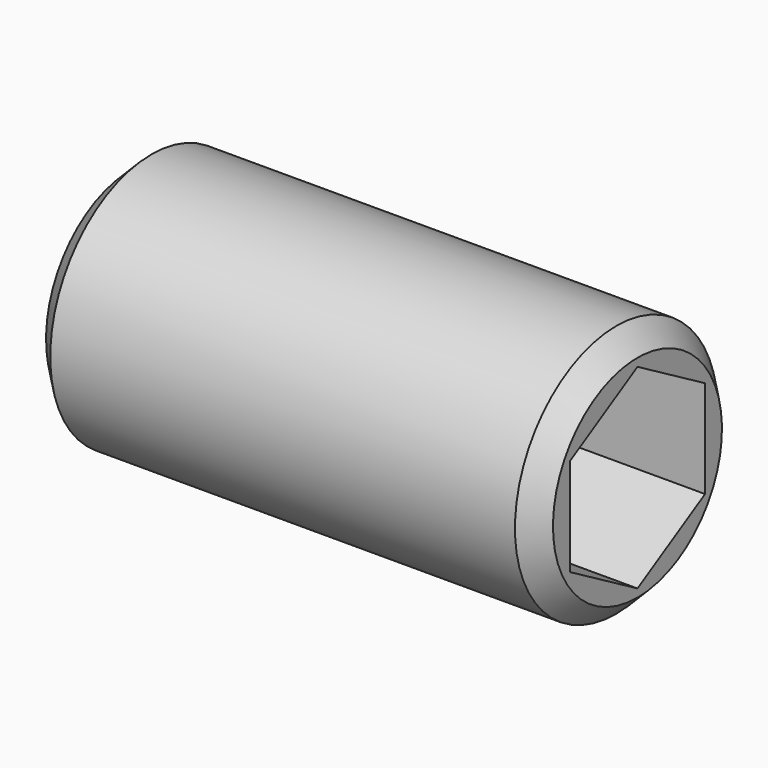
from build123d import *

# Parameters (mm, degrees)
CYLINDER012010_R     = 1.5
CYLINDER012010_DEPTH = 6
CHAMFER002_SIZE      = 0.25
POCKET018_DEPTH      = 2.5


with BuildPart() as part:
    # Cylinder012010 → Cylinder012010 (new body)
    with BuildSketch(Plane(origin=(3, 0, 2.6), x_dir=(0, 0, -1), z_dir=(1, 0, 0))):
        Circle(CYLINDER012010_R)
    extrude(amount=CYLINDER012010_DEPTH)

    # Chamfer002
    chamfer002_edges = [part.edges().sort_by_distance(p)[0] for p in [
        (9, 0, 4.1),
        (3, 0, 4.1),
    ]]
    chamfer(chamfer002_edges, length=CHAMFER002_SIZE)

    # Sketch022 (on Face5 of Chamfer002) → Pocket018 (cut)
    with BuildSketch(Plane.YZ.offset(9)):
        Polygon((-1, 3.17735), (0, 3.754701), (1, 3.17735), (1, 2.02265), (0, 1.445299), (-1, 2.02265), align=None)
    extrude(amount=-POCKET018_DEPTH, mode=Mode.SUBTRACT)


solid = part.part
